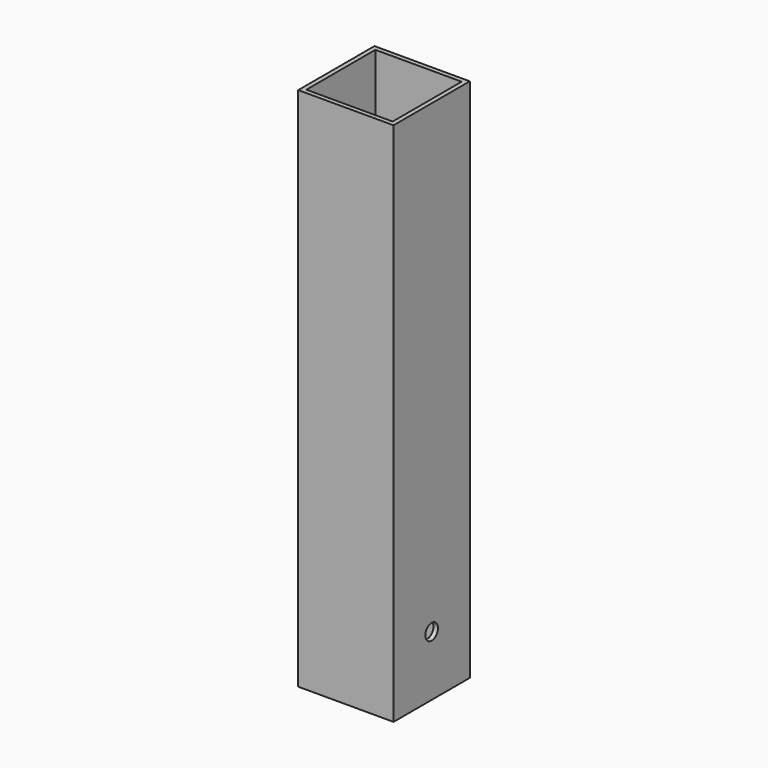
from build123d import *

# Parameters (mm, degrees)
F0_W     = 63.5
F0_H     = 63.5
F0_W_2   = 57.5
F0_H_2   = 57.5
F1_DEPTH = 350
F2_R     = 5.25
F3_DEPTH = 25


with BuildPart() as f1:
    # F0 (on Top) → F1 (new body)
    with BuildSketch(Plane.XY):
        with Locations((2.538389, -2.516717)):
            Rectangle(F0_W, F0_H)
        with Locations((2.538389, -2.516717)):
            Rectangle(F0_W_2, F0_H_2, mode=Mode.SUBTRACT)
    extrude(amount=F1_DEPTH)

    # F2 (on face) → F3 (cut)
    with BuildSketch(Plane.YZ.offset(34.288389)):
        with Locations((-2.516717, 40)):
            Circle(F2_R)
    extrude(amount=-F3_DEPTH, mode=Mode.SUBTRACT)


solid = f1.part
